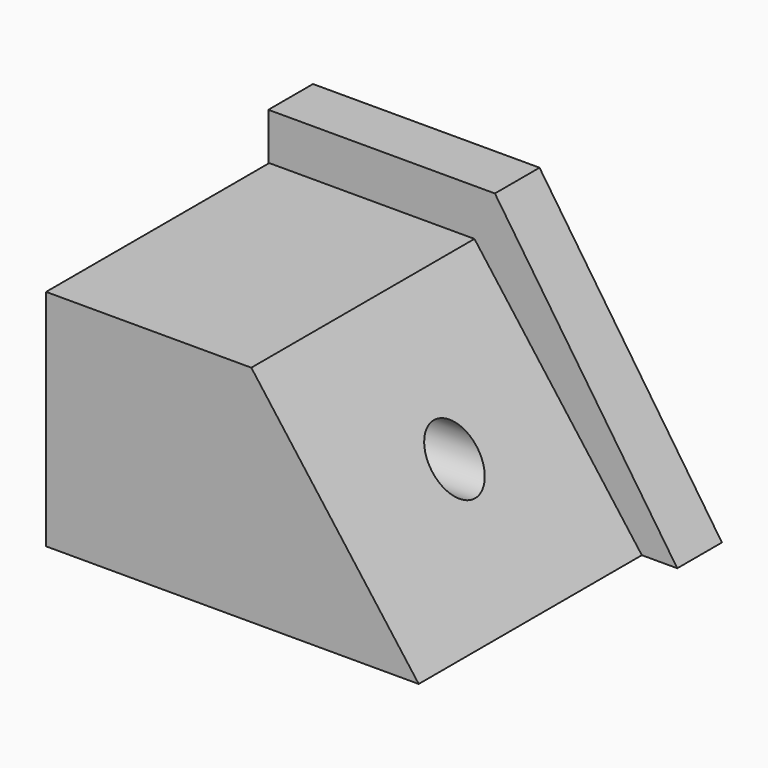
from build123d import *

# Parameters (mm, degrees)
F1_DEPTH = 12.7
F3_DEPTH = 63.5
F4_R     = 6.3025
F5_DEPTH = 92.896292


with BuildPart() as f1:
    # F0 (on Front) → F1 (new body)
    with BuildSketch(Plane.XZ):
        Polygon((-93.092211, 0), (0, 0), (-41.521776, 61.619077), (-93.092211, 61.619077), align=None)
    extrude(amount=F1_DEPTH)

    # F2 (on face) → F3 (join)
    with BuildSketch(Plane.XZ.offset(12.7)):
        Polygon((-92.895292, 51.001634), (-92.895292, 0), (-8.06691, 0), (-46.175938, 51.001634), align=None)
    extrude(amount=F3_DEPTH)

    # F4 (on face) → F5 (cut, through all)
    with BuildSketch(Plane(origin=(-92.895292, 0, 0), x_dir=(0, -1, 0), z_dir=(-1, 0, 0))):
        with Locations((42.469766, 25.216423)):
            Circle(F4_R)
    extrude(amount=-F5_DEPTH, mode=Mode.SUBTRACT)


solid = f1.part
